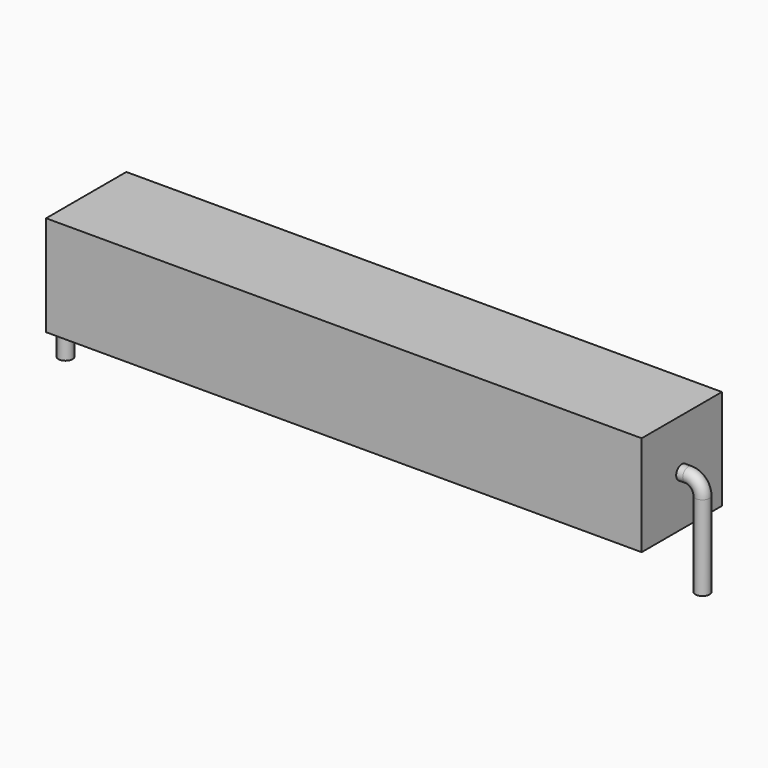
from build123d import *

# Parameters (mm, degrees)
SKETCH_R    = 0.45
SKETCH002_W = 38
SKETCH002_H = 6.4
PAD_DEPTH   = 3.2


with BuildPart() as sweep_body:
    # Sweep: sweep along a path in Sketch001
    with BuildLine(Plane.XZ) as sweep_path:
        Line((0, -3), (0, 2.4))
        ThreePointArc((0, 2.4), (0.263607, 3.036399), (0.900008, 3.3))
        Line((0.900008, 3.3), (39.74, 3.3))
        ThreePointArc((39.74, 3.3), (40.376396, 3.036396), (40.64, 2.4))
        Line((40.64, 2.4), (40.64, -3))
    # Sketch → Sweep (sweep)
    with BuildSketch(Plane.XY.offset(-2)):
        Circle(SKETCH_R)
    sweep(path=sweep_path.line)


with BuildPart() as pad:
    # Sketch002 → Pad (new body, symmetric)
    with BuildSketch(Plane.XZ):
        with Locations((20.32, 3.3)):
            Rectangle(SKETCH002_W, SKETCH002_H)
    extrude(amount=PAD_DEPTH, both=True)


solid = Compound([sweep_body.part, pad.part])
